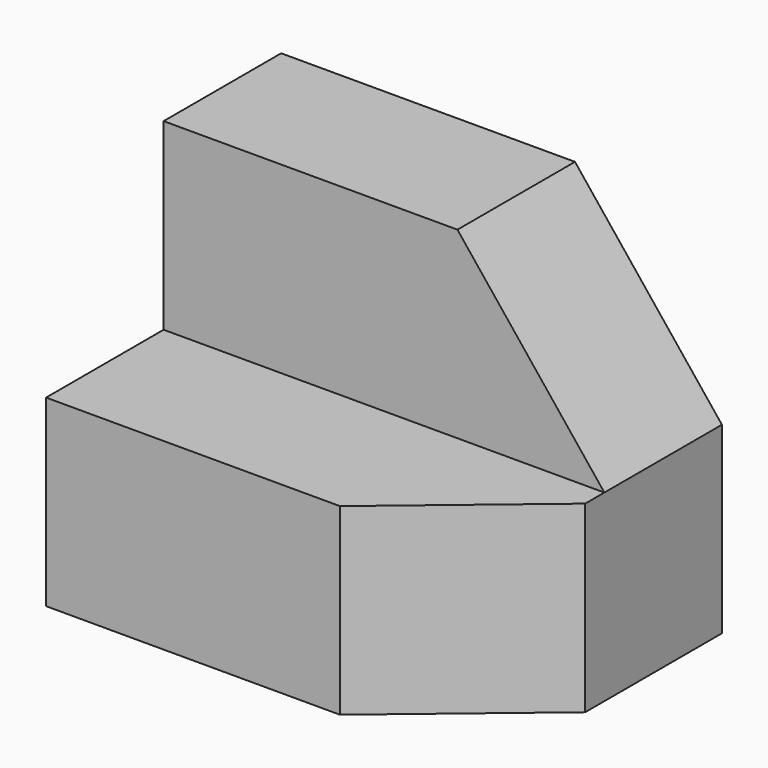
from build123d import *

# Parameters (mm, degrees)
F0_W     = 38.1
F0_H     = 25.4
F1_DEPTH = 31.75
F2_W     = 38.1
F2_H     = 15.875
F3_DEPTH = 12.7
F5_DEPTH = 25.4
F7_DEPTH = 25.4


with BuildPart() as f1:
    # F0 (on Top) → F1 (new body)
    with BuildSketch(Plane.XY):
        with Locations((19.05, 12.7)):
            Rectangle(F0_W, F0_H)
    extrude(amount=F1_DEPTH)

    # F2 (on face) → F3 (cut)
    with BuildSketch(Plane.XZ):
        with Locations((19.05, 23.8125)):
            Rectangle(F2_W, F2_H)
    extrude(amount=-F3_DEPTH, mode=Mode.SUBTRACT)

    # F4 (on face) → F5 (cut)
    with BuildSketch(Plane.XZ.offset(-12.7)):
        Polygon((38.1, 15.875), (38.1, 31.75), (25.4, 31.75), align=None)
    extrude(amount=-F5_DEPTH, mode=Mode.SUBTRACT)

    # F6 (on face) → F7 (cut)
    with BuildSketch(Plane(origin=(0, 0, 0), x_dir=(1, 0, 0), z_dir=(0, 0, -1))):
        Polygon((38.1, -10.627423), (38.1, 0), (25.4, 0), align=None)
    extrude(amount=-F7_DEPTH, mode=Mode.SUBTRACT)


solid = f1.part
